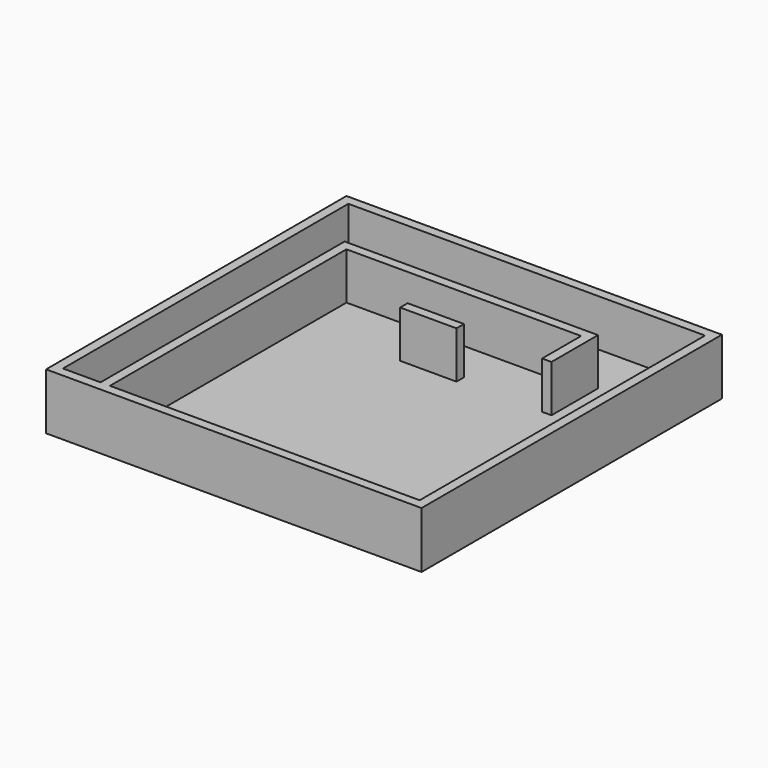
from build123d import *

# Parameters (mm, degrees)
F0_W     = 50.8
F0_H     = 50.8
F1_DEPTH = 7.62
F2_T     = -1.27
F3_W     = 1.27
F3_H     = 6.604
F3_W_2   = 7.62
F3_H_2   = 1.27
F4_DEPTH = 6.35
F5_R     = 1.27
F6_DEPTH = 25.4


with BuildPart() as f1:
    # F0 (on Top) → F1 (new body)
    with BuildSketch(Plane.XY):
        with Locations((25.4, 25.4)):
            Rectangle(F0_W, F0_H)
    extrude(amount=F1_DEPTH)

    # F2
    f2_openings = [f1.faces().sort_by_distance(p)[0] for p in [
        (25.4, 25.4, 7.62),
    ]]
    offset(amount=F2_T, openings=f2_openings)

    # F3 (on face) → F4 (join)
    with BuildSketch(Plane.XY.offset(1.27)):
        Polygon((6.35, 42.545278), (6.35, 1.27), (7.62, 1.27), (7.62, 41.275278), (7.62, 42.545278), align=None)
        Polygon((7.62, 42.545278), (7.62, 41.275278), (39.37, 41.275278), (40.64, 41.275278), (40.64, 42.545278), align=None)
        with Locations((40.005, 37.973278)):
            Rectangle(F3_W, F3_H)
        with Locations((24.184101, 35.050092)):
            Rectangle(F3_W_2, F3_H_2)
    extrude(amount=F4_DEPTH)

    # F5 (on face) → F6 (cut)
    with BuildSketch(Plane.XY.offset(1.27)):
        with Locations((3.990767, 5.742811)):
            Circle(F5_R)
        with Locations((3.796095, 10.80427)):
            Circle(F5_R)
    extrude(amount=-F6_DEPTH, mode=Mode.SUBTRACT)


solid = f1.part
